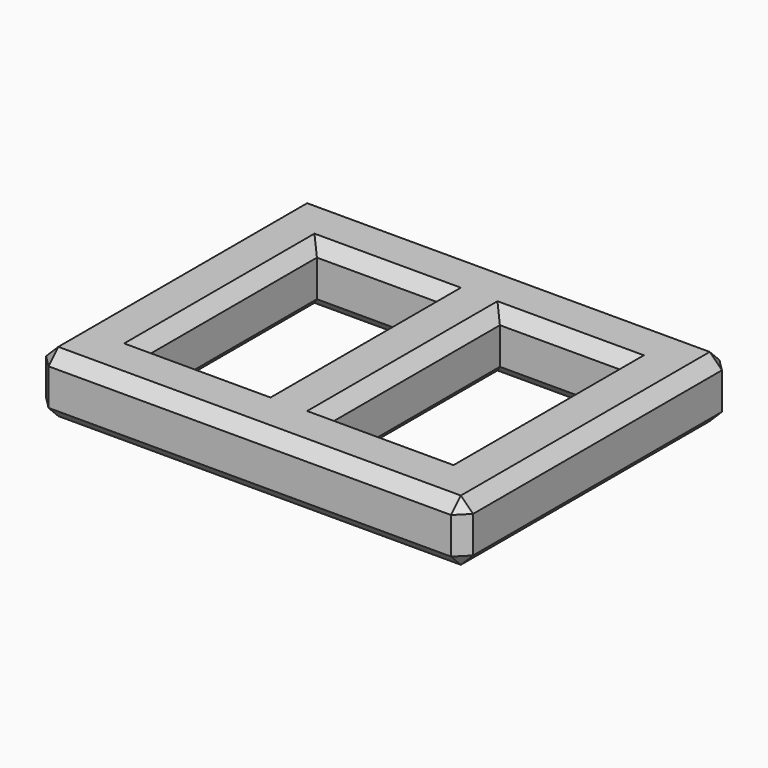
from build123d import *

# Parameters (mm, degrees)
F0_W     = 14
F0_H     = 11
F0_W_2   = 4
F0_H_2   = 7
F1_DEPTH = 2
F2_SIZE  = 0.4


with BuildPart() as f1:
    # F0 (on Top) → F1 (new body)
    with BuildSketch(Plane.XY):
        with Locations((3.093662, 1.61453)):
            Rectangle(F0_W, F0_H)
        with Locations((0.093662, 1.61453)):
            Rectangle(F0_W_2, F0_H_2, mode=Mode.SUBTRACT)
        with Locations((6.093662, 1.61453)):
            Rectangle(F0_W_2, F0_H_2, mode=Mode.SUBTRACT)
    extrude(amount=F1_DEPTH)

    # F2
    f2_edges = [f1.edges().sort_by_distance(p)[0] for p in [
        (3.093662, -3.88547, 2),
        (-3.906338, 1.61453, 2),
        (-1.906338, 1.61453, 2),
        (2.093662, 1.61453, 2),
        (4.093662, 1.61453, 2),
        (8.093662, 1.61453, 2),
        (0.093662, 5.11453, 2),
        (0.093662, -1.88547, 2),
        (6.093662, -1.88547, 2),
        (10.093662, 1.61453, 2),
        (3.093662, 7.11453, 2),
        (6.093662, 5.11453, 2),
        (10.093662, 7.11453, 1),
        (-3.906338, 7.11453, 1),
        (10.093662, -3.88547, 1),
        (-3.906338, -3.88547, 1),
        (3.093662, -3.88547, 0),
        (10.093662, 1.61453, 0),
        (8.093662, 1.61453, 0),
        (6.093662, 5.11453, 0),
        (4.093662, 1.61453, 0),
        (6.093662, -1.88547, 0),
        (2.093662, 1.61453, 0),
        (0.093662, 5.11453, 0),
        (0.093662, -1.88547, 0),
        (-1.906338, 1.61453, 0),
        (-3.906338, 1.61453, 0),
        (3.093662, 7.11453, 0),
    ]]
    chamfer(f2_edges, length=F2_SIZE)


solid = f1.part
